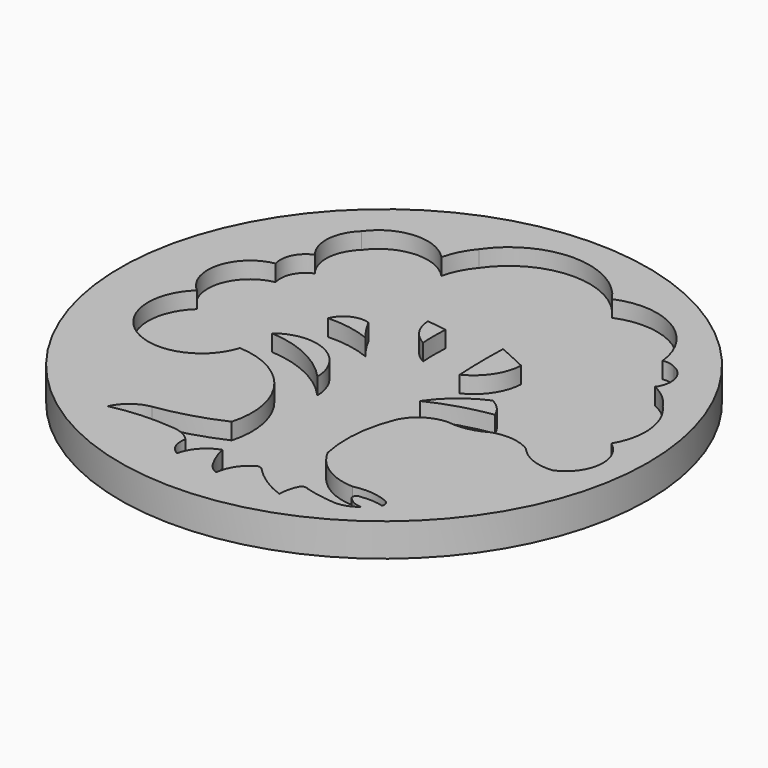
from build123d import *

# Parameters (mm, degrees)
F0_R     = 50.8
F1_DEPTH = 6.35
F3_DEPTH = 3.175


with BuildPart() as f1:
    # F0 (on Top) → F1 (new body)
    with BuildSketch(Plane.XY):
        Circle(F0_R)
    extrude(amount=F1_DEPTH)

    # F2 (on face) → F3 (cut)
    with BuildSketch(Plane.XY.offset(6.35)):
        with BuildLine():
            ThreePointArc((-20.409899, -9.165186), (-8.713511, -15.533016), (-6.405892, -28.649023))
            ThreePointArc((-6.405892, -28.649023), (-12.498571, -30.92391), (-18.853704, -32.30527))
            ThreePointArc((-18.853704, -32.30527), (-21.972675, -33.680035), (-24.105206, -36.339033))
            ThreePointArc((-24.105206, -36.339033), (-18.309615, -35.54218), (-12.460569, -35.654053))
            ThreePointArc((-12.460569, -35.654053), (-10.157818, -36.115918), (-8.238821, -37.469961))
            ThreePointArc((-8.238821, -37.469961), (-8.312029, -39.074644), (-7.786276, -40.592521))
            ThreePointArc((-7.786276, -40.592521), (-7.173062, -41.29787), (-6.405892, -41.831724))
            ThreePointArc((-6.405892, -41.831724), (-4.778592, -38.642786), (-1.789923, -36.671672))
            ThreePointArc((-1.789923, -36.671672), (-1.085393, -39.0133), (0, -41.204534))
            ThreePointArc((0, -41.204534), (0.873752, -42.269552), (2.058734, -42.972066))
            ThreePointArc((2.058734, -42.972066), (3.026163, -40.087128), (5.10915, -37.869032))
            ThreePointArc((5.10915, -37.869032), (5.90739, -37.51004), (6.70563, -37.869032))
            ThreePointArc((6.70563, -37.869032), (10.017439, -40.631321), (13.8848, -42.539682))
            ThreePointArc((13.8848, -42.539682), (14.078165, -40.618723), (14.740057, -38.80506))
            ThreePointArc((14.740057, -38.80506), (15.40462, -38.390072), (16.165486, -38.577001))
            ThreePointArc((16.165486, -38.577001), (19.134333, -39.233369), (22.152284, -39.6033))
            ThreePointArc((22.152284, -39.6033), (24.22883, -39.250722), (26.057957, -38.20638))
            ThreePointArc((26.057957, -38.20638), (24.409477, -37.750926), (23.082776, -36.671672))
            ThreePointArc((23.082776, -36.671672), (23.305789, -35.851729), (24.132207, -35.654053))
            ThreePointArc((24.132207, -35.654053), (26.246167, -35.540671), (28.329933, -35.914309))
            ThreePointArc((28.329933, -35.914309), (28.305036, -34.988535), (27.65722, -34.32671))
            ThreePointArc((27.65722, -34.32671), (24.34987, -33.525294), (20.957004, -33.788539))
            ThreePointArc((20.957004, -33.788539), (15.180236, -31.980008), (11.14397, -27.468866))
            ThreePointArc((11.14397, -27.468866), (10.709627, -19.910276), (12.538101, -12.56333))
            ThreePointArc((12.538101, -12.56333), (15.245467, -9.599875), (19.090848, -8.448814))
            ThreePointArc((19.090848, -8.448814), (22.690074, -8.35066), (26.057957, -7.077309))
            ThreePointArc((26.057957, -7.077309), (29.897773, -6.621777), (33.567846, -7.839257))
            ThreePointArc((33.567846, -7.839257), (36.947302, -10.299215), (41.085728, -10.887046))
            ThreePointArc((41.085728, -10.887046), (45.507777, -5.155106), (42.558827, 1.456501))
            ThreePointArc((42.558827, 1.456501), (44.188538, 8.812407), (41.085728, 15.67811))
            ThreePointArc((41.085728, 15.67811), (38.938533, 18.174445), (36.168348, 19.954393))
            ThreePointArc((36.168348, 19.954393), (36.881996, 23.901454), (34.229763, 26.910482))
            ThreePointArc((34.229763, 26.910482), (33.036992, 27.313356), (31.778026, 27.309604))
            ThreePointArc((31.778026, 27.309604), (25.270382, 37.388286), (13.300548, 38.19596))
            ThreePointArc((13.300548, 38.19596), (0.47393, 45.12883), (-12.460569, 38.399376))
            ThreePointArc((-12.460569, 38.399376), (-14.182386, 35.784343), (-15.245431, 32.83935))
            ThreePointArc((-15.245431, 32.83935), (-22.776904, 35.86315), (-29.891349, 31.957883))
            ThreePointArc((-29.891349, 31.957883), (-32.28661, 26.905181), (-30.569399, 21.583691))
            ThreePointArc((-30.569399, 21.583691), (-33.136528, 19.1829), (-33.401847, 15.67811))
            ThreePointArc((-33.401847, 15.67811), (-39.802605, 9.763866), (-37.169039, 1.456501))
            ThreePointArc((-37.169039, 1.456501), (-35.724093, -14.795951), (-20.409899, -9.165186))
        make_face()
        with BuildLine():
            ThreePointArc((-19.671235, -2.408931), (-10.495474, -1.403019), (-5.499953, -9.165186))
            ThreePointArc((-5.499953, -9.165186), (-11.918937, -4.388742), (-19.671235, -2.408931))
        make_face(mode=Mode.SUBTRACT)
        with BuildLine():
            ThreePointArc((11.486482, -5.712907), (15.204523, -1.644017), (19.912776, 1.221651))
            ThreePointArc((19.912776, 1.221651), (21.825364, -0.176932), (23.082776, -2.185152))
            ThreePointArc((23.082776, -2.185152), (17.151026, -3.509855), (11.486482, -5.712907))
        make_face(mode=Mode.SUBTRACT)
        with BuildLine():
            ThreePointArc((-10.517537, 9.38917), (-9.26208, 7.248359), (-7.786276, 5.253054))
            ThreePointArc((-7.786276, 5.253054), (-11.891821, 6.399429), (-16.145367, 6.676962))
            ThreePointArc((-16.145367, 6.676962), (-13.865306, 9.140813), (-10.517537, 9.38917))
        make_face(mode=Mode.SUBTRACT)
        with BuildLine():
            ThreePointArc((0, 9.38917), (-2.69509, 11.815598), (-3.800875, 15.269336))
            ThreePointArc((-3.800875, 15.269336), (-1.893817, 15.079444), (0, 14.78553))
            ThreePointArc((0, 14.78553), (-0.095241, 12.08735), (0, 9.38917))
        make_face(mode=Mode.SUBTRACT)
        with BuildLine():
            ThreePointArc((10.79395, 4.70623), (10.615223, 9.986429), (10.673, 15.269336))
            ThreePointArc((10.673, 15.269336), (13.432832, 14.049362), (16.165486, 12.769669))
            ThreePointArc((16.165486, 12.769669), (14.580089, 8.004927), (10.79395, 4.70623))
        make_face(mode=Mode.SUBTRACT)
    extrude(amount=-F3_DEPTH, mode=Mode.SUBTRACT)


solid = f1.part
